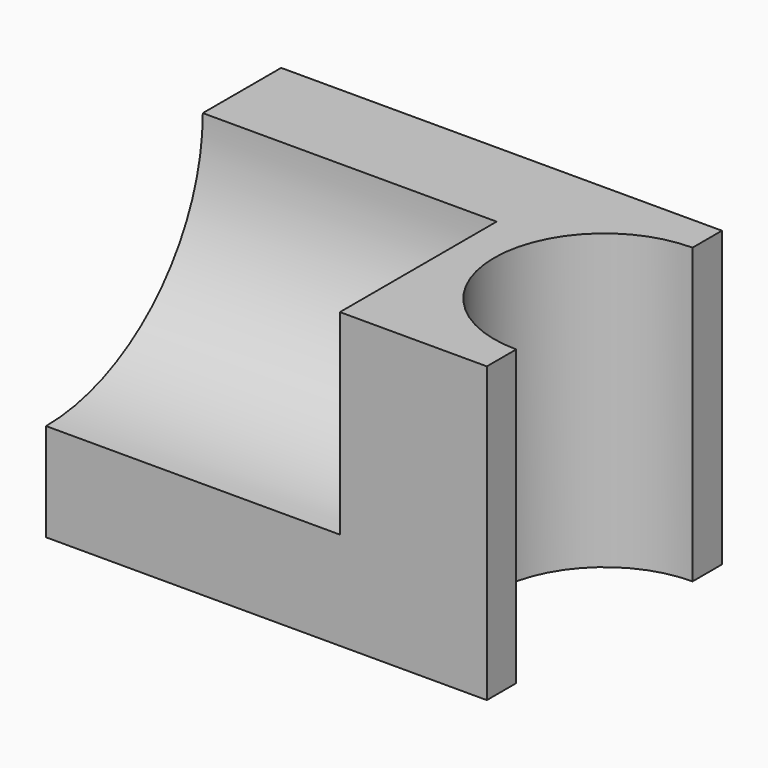
from build123d import *

# Parameters (mm, degrees)
F0_W     = 90
F0_H     = 60
F1_DEPTH = 60
F3_DEPTH = 60
F5_DEPTH = 60.001


with BuildPart() as f1:
    # F0 (on Front) → F1 (new body)
    with BuildSketch(Plane.XZ):
        with Locations((45, 30)):
            Rectangle(F0_W, F0_H)
    extrude(amount=F1_DEPTH)

    # F2 (on face) → F3 (cut)
    with BuildSketch(Plane(origin=(0, 0, 0), x_dir=(0, -1, 0), z_dir=(-1, 0, 0))):
        with BuildLine():
            Line((60, 60), (20, 60))
            ThreePointArc((20, 60), (31.7157287525, 31.7157287525), (60, 20))
            Line((60, 20), (60, 60))
        make_face()
    extrude(amount=-F3_DEPTH, mode=Mode.SUBTRACT)

    # F4 (on face) → F5 (cut, through all)
    with BuildSketch(Plane.XY.offset(60)):
        with BuildLine():
            Line((90, -52.5), (90, -7.5))
            ThreePointArc((90, -7.5), (67.5, -30), (90, -52.5))
        make_face()
    extrude(amount=-F5_DEPTH, mode=Mode.SUBTRACT)


solid = f1.part
